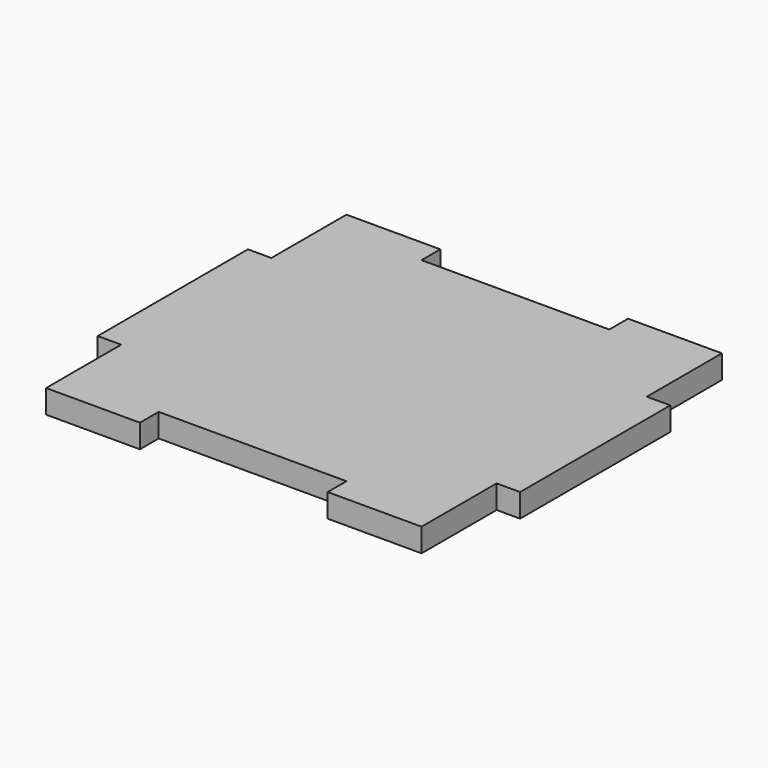
from build123d import *

# Parameters (mm, degrees)
F0_W     = 3.175
F0_H     = 25.4
F1_DEPTH = 3.175


with BuildPart() as f1:
    # F0 (on Top) → F1 (new body)
    with BuildSketch(Plane.XY):
        Polygon((25.4, 12.7), (25.4, 25.4), (12.7, 25.4), (12.7, 22.225), (-12.7, 22.225), (-12.7, 25.4), (-25.4, 25.4), (-25.4, 12.7), (-22.225, 12.7), (-22.225, -12.7), (-25.4, -12.7), (-25.4, -25.4), (-12.7, -25.4), (-12.7, -22.225), (12.7, -22.225), (12.7, -25.4), (25.4, -25.4), (25.4, -12.7), (22.225, -12.7), (22.225, 12.7), align=None)
        with Locations((-26.9875, 0)):
            Rectangle(F0_W, F0_H)
        with Locations((-23.8125, 0)):
            Rectangle(F0_W, F0_H)
        with Locations((26.9875, 0)):
            Rectangle(F0_W, F0_H)
        with Locations((23.8125, 0)):
            Rectangle(F0_W, F0_H)
    extrude(amount=F1_DEPTH)


solid = f1.part
